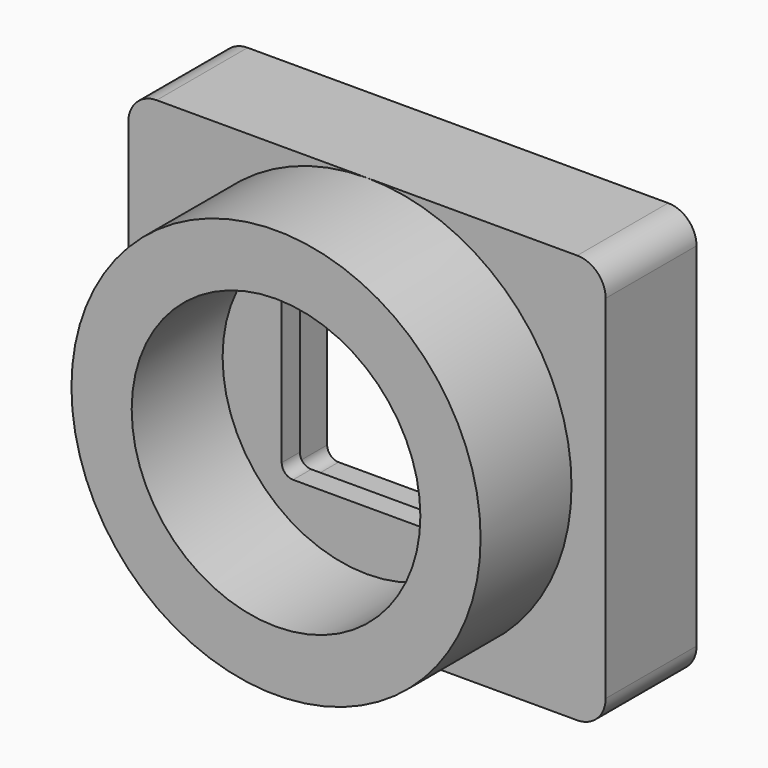
from build123d import *

# Parameters (mm, degrees)
F0_W     = 42
F0_H     = 36
F1_DEPTH = 10
F2_R     = 18
F3_DEPTH = 10
F4_R     = 12.7
F5_DEPTH = 10
F6_W     = 23
F6_H     = 23
F7_DEPTH = 8
F8_W     = 15
F8_H     = 15
F9_DEPTH = 12.001
F10_R    = 1
F11_R    = 2.5


with BuildPart() as f1:
    # F0 (on Front) → F1 (new body)
    with BuildSketch(Plane.XZ):
        Rectangle(F0_W, F0_H)
    extrude(amount=-F1_DEPTH)

    # F2 (on Front) → F3 (join)
    with BuildSketch(Plane.XZ):
        Circle(F2_R)
    extrude(amount=F3_DEPTH)

    # F4 (on face) → F5 (cut)
    with BuildSketch(Plane.XZ.offset(10)):
        Circle(F4_R)
    extrude(amount=-F5_DEPTH, mode=Mode.SUBTRACT)

    # F6 (on face) → F7 (cut)
    with BuildSketch(Plane(origin=(0, 10, 0), x_dir=(-1, 0, 0), z_dir=(0, 1, 0))):
        Rectangle(F6_W, F6_H)
    extrude(amount=-F7_DEPTH, mode=Mode.SUBTRACT)

    # F8 (on face) → F9 (cut, through all)
    with BuildSketch(Plane(origin=(0, 2, 0), x_dir=(-1, 0, 0), z_dir=(0, 1, 0))):
        Rectangle(F8_W, F8_H)
    extrude(amount=-F9_DEPTH, mode=Mode.SUBTRACT)

    # F10
    f10_edges = [f1.edges().sort_by_distance(p)[0] for p in [
        (11.5, 6, 11.5),
        (-11.5, 6, 11.5),
        (11.5, 6, -11.5),
        (-11.5, 6, -11.5),
        (-7.5, 1, -7.5),
        (7.5, 1, -7.5),
        (7.5, 1, 7.5),
        (-7.5, 1, 7.5),
    ]]
    fillet(f10_edges, radius=F10_R)

    # F11
    f11_edges = [f1.edges().sort_by_distance(p)[0] for p in [
        (-21, 5, 18),
        (-21, 5, -18),
        (21, 5, 18),
        (21, 5, -18),
    ]]
    fillet(f11_edges, radius=F11_R)


solid = f1.part
